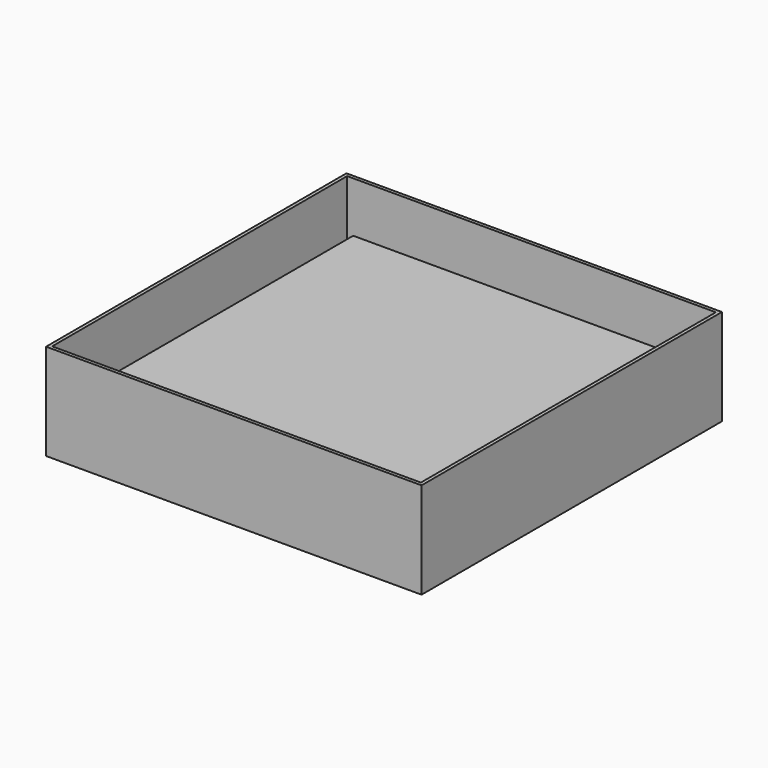
from build123d import *

# Parameters (mm, degrees)
F0_W     = 99.06
F0_H     = 99.06
F1_DEPTH = 25.4
F2_T     = -0.889
F3_W     = 81.28
F3_H     = 81.28
F4_DEPTH = 16.51
F5_W     = 79.502
F5_H     = 79.502
F6_DEPTH = 16.51


with BuildPart() as f1:
    # F0 (on Top) → F1 (new body)
    with BuildSketch(Plane.XY):
        Rectangle(F0_W, F0_H)
    extrude(amount=F1_DEPTH)

    # F2
    f2_openings = [f1.faces().sort_by_distance(p)[0] for p in [
        (0, 0, 25.4),
    ]]
    offset(amount=F2_T, openings=f2_openings)

    # F3 (on face) → F4 (join)
    with BuildSketch(Plane.XY.offset(0.889)):
        Rectangle(F3_W, F3_H)
    extrude(amount=F4_DEPTH)

    # F5 (on face) → F6 (cut)
    with BuildSketch(Plane(origin=(0, 0, 0), x_dir=(1, 0, 0), z_dir=(0, 0, -1))):
        Rectangle(F5_W, F5_H)
    extrude(amount=-F6_DEPTH, mode=Mode.SUBTRACT)


solid = f1.part
